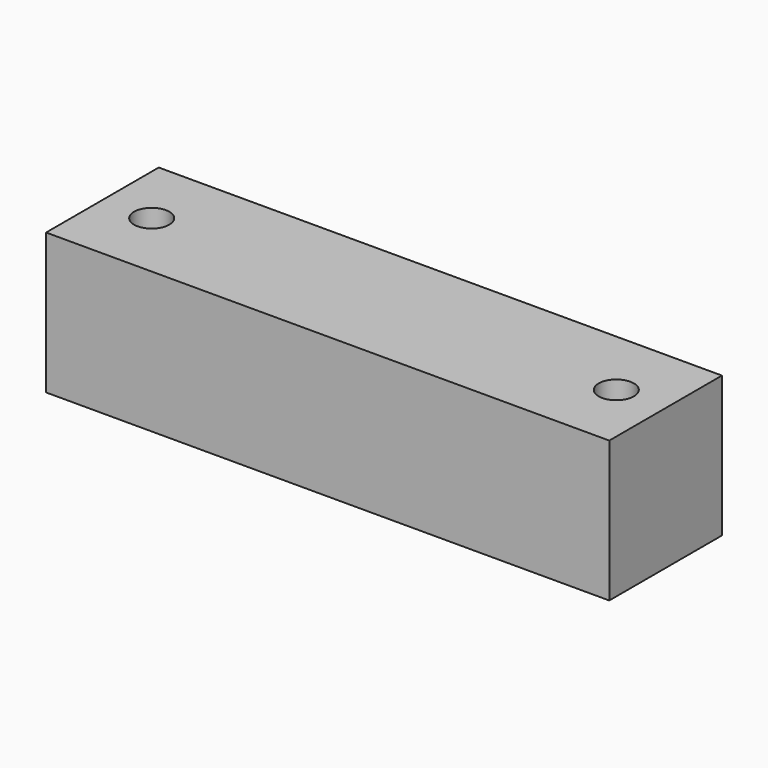
from build123d import *

# Parameters (mm, degrees)
SKETCH_W     = 80
SKETCH_H     = 20
SKETCH_R     = 2.5
PAD_DEPTH    = 20
SKETCH001_R  = 5
POCKET_DEPTH = 8


with BuildPart() as part:
    # Sketch → Pad (new body)
    with BuildSketch(Plane.XY):
        Rectangle(SKETCH_W, SKETCH_H)
        with Locations((-33, 0)):
            Circle(SKETCH_R, mode=Mode.SUBTRACT)
        with Locations((33, 0)):
            Circle(SKETCH_R, mode=Mode.SUBTRACT)
    extrude(amount=PAD_DEPTH)

    # Sketch001 → Pocket (cut)
    with BuildSketch(Plane(origin=(0, 0, 0), x_dir=(1, 0, 0), z_dir=(0, 0, -1))):
        with Locations((-33, 0)):
            Circle(SKETCH001_R)
        with Locations((33, 0)):
            Circle(SKETCH001_R)
    extrude(amount=-POCKET_DEPTH, mode=Mode.SUBTRACT)


solid = part.part
